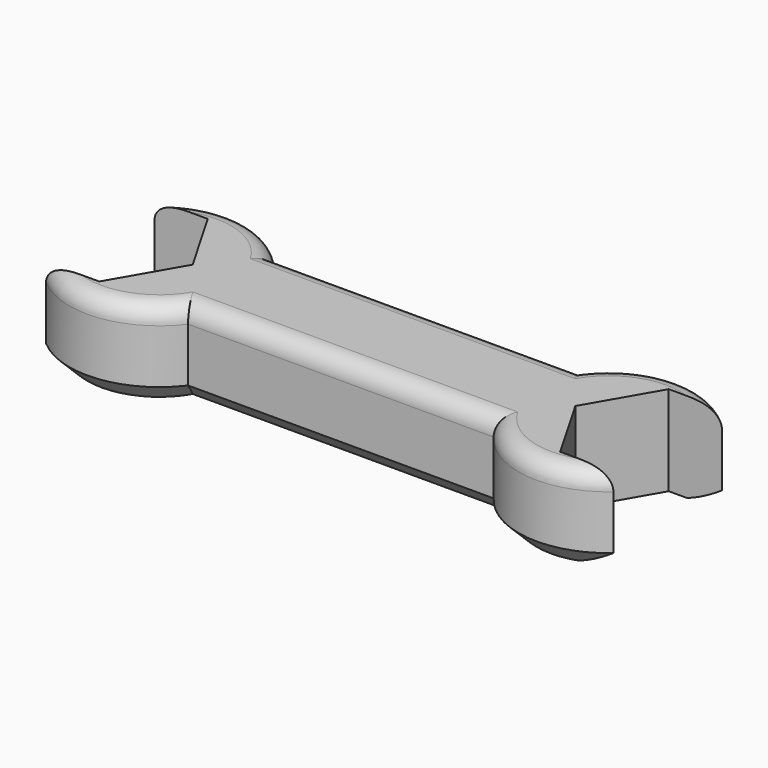
from build123d import *

# Parameters (mm, degrees)
F1_DEPTH = 6.35
F3_DEPTH = 12.701
F6_R     = 2.54
F7_SIZE  = 2.54


with BuildPart() as f1:
    # F0 (on Top) → F1 (new body, symmetric)
    with BuildSketch(Plane.XY):
        with BuildLine():
            Line((21.59, 7.62), (-21.59, 7.62))
            ThreePointArc((-21.59, 7.62), (-44.45, 0), (-21.59, -7.62))
            Line((-21.59, -7.62), (21.59, -7.62))
            ThreePointArc((21.59, -7.62), (44.45, 0), (21.59, 7.62))
        make_face()
    extrude(amount=F1_DEPTH, both=True)

    # F4: F3 across plane


with BuildPart() as f3:
    # F2 (on face) → F3 (new body, through all)
    with BuildSketch(Plane(origin=(0, 0, -6.35), x_dir=(1, 0, 0), z_dir=(0, 0, -1))):
        Polygon((-43.632001, 9.581707), (-49.164003, 0), (-43.632001, -9.581707), (-32.567999, -9.581707), (-27.035997, 0), (-32.567999, 9.581707), align=None)
    extrude(amount=-F3_DEPTH)


with BuildPart() as f1_1:
    add(f1.part)
    add(f3.part.mirror(Plane.YZ), mode=Mode.SUBTRACT)

    # F5: cut F3
    add(f3.part, mode=Mode.SUBTRACT)

    # F6
    f6_edges = [f1_1.edges().sort_by_distance(p)[0] for p in [
        (0, -7.62, 6.35),
        (-30.410502, 12.629162, 6.35),
        (-30.410502, -12.629162, 6.35),
        (0, 7.62, 6.35),
        (30.410502, -12.629162, 6.35),
        (30.410502, 12.629162, 6.35),
    ]]
    fillet(f6_edges, radius=F6_R)

    # F7
    f7_edges = [f1_1.edges().sort_by_distance(p)[0] for p in [
        (30.410502, -12.629162, -6.35),
        (30.410502, 12.629162, -6.35),
        (0, -7.62, -6.35),
        (0, 7.62, -6.35),
        (-30.410502, 12.629162, -6.35),
        (-30.410502, -12.629162, -6.35),
    ]]
    chamfer(f7_edges, length=F7_SIZE)


solid = f1_1.part
